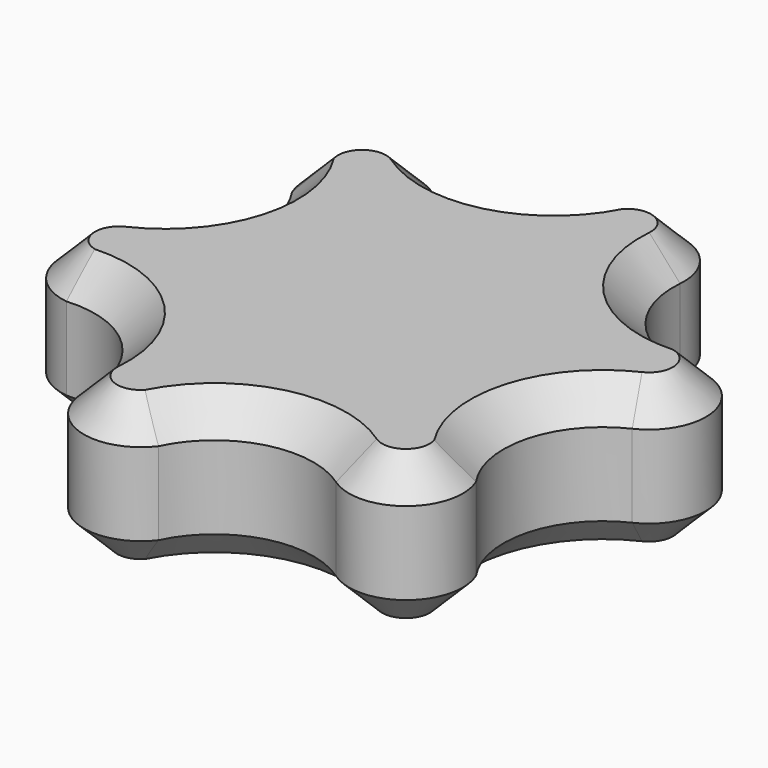
from build123d import *

# Parameters (mm, degrees)
F0_R     = 6.6
F1_DEPTH = 9
F2_DEPTH = 7
F3_SIZE  = 2
F4_DEPTH = 3


with BuildPart() as f1:
    # F0 (on Top) → F1 (new body)
    with BuildSketch(Plane.XY):
        with BuildLine():
            ThreePointArc((1.338738724, 15.35871396), (-2.5323518967, 12.1283433891), (-7.5, 12.9903810568))
            ThreePointArc((-7.5, 12.9903810568), (-11.6205194267, 12.8362404515), (-12.6316670968, 8.838738724))
            ThreePointArc((-12.6316670968, 8.838738724), (-11.7696294292, 3.8710906207), (-15, 0))
            ThreePointArc((-15, 0), (-16.9267700334, -3.6455448029), (-13.9704058208, -6.519975236))
            ThreePointArc((-13.9704058208, -6.519975236), (-9.2372775325, -8.2572527684), (-7.5, -12.9903810568))
            ThreePointArc((-7.5, -12.9903810568), (-5.3062506067, -16.4817852544), (-1.338738724, -15.35871396))
            ThreePointArc((-1.338738724, -15.35871396), (2.5323518967, -12.1283433891), (7.5, -12.9903810568))
            ThreePointArc((7.5, -12.9903810568), (11.6205194267, -12.8362404515), (12.6316670968, -8.838738724))
            ThreePointArc((12.6316670968, -8.838738724), (11.7696294292, -3.8710906207), (15, 0))
            ThreePointArc((15, 0), (16.9267700334, 3.6455448029), (13.9704058208, 6.519975236))
            ThreePointArc((13.9704058208, 6.519975236), (9.2372775325, 8.2572527684), (7.5, 12.9903810568))
            ThreePointArc((7.5, 12.9903810568), (5.3062506067, 16.4817852544), (1.338738724, 15.35871396))
        make_face()
        Circle(F0_R, mode=Mode.SUBTRACT)
        Circle(F0_R)
        Polygon((-1.6743157806, -2.9), (-3.3486315613, 0), (-1.6743157806, 2.9), (1.6743157806, 2.9), (3.3486315613, 0), (1.6743157806, -2.9), align=None, mode=Mode.SUBTRACT)
        Polygon((-1.6743157806, 2.9), (-3.3486315613, 0), (-1.6743157806, -2.9), (1.6743157806, -2.9), (3.3486315613, 0), (1.6743157806, 2.9), align=None)
    extrude(amount=F1_DEPTH)

    # F0 (on Top) → F2 (cut)
    with BuildSketch(Plane.XY):
        Circle(F0_R)
        Polygon((-1.6743157806, -2.9), (-3.3486315613, 0), (-1.6743157806, 2.9), (1.6743157806, 2.9), (3.3486315613, 0), (1.6743157806, -2.9), align=None, mode=Mode.SUBTRACT)
    extrude(amount=F2_DEPTH, mode=Mode.SUBTRACT)

    # F3
    f3_edges = [f1.edges().sort_by_distance(p)[0] for p in [
        (-2.532352, 12.128343, 0),
        (5.306251, 16.481785, 0),
        (9.237278, 8.257253, 0),
        (16.92677, 3.645545, 0),
        (11.769629, -3.871091, 0),
        (2.532352, -12.128343, 0),
        (-5.306251, -16.481785, 0),
        (-9.237278, -8.257253, 0),
        (-16.92677, -3.645545, 0),
        (-11.769629, 3.871091, 0),
        (9.237278, 8.257253, 9),
        (5.306251, 16.481785, 9),
        (-2.532352, 12.128343, 9),
        (-11.620519, 12.83624, 9),
        (-11.769629, 3.871091, 9),
        (-16.92677, -3.645545, 9),
        (-9.237278, -8.257253, 9),
        (-5.306251, -16.481785, 9),
        (2.532352, -12.128343, 9),
        (11.620519, -12.83624, 9),
        (11.769629, -3.871091, 9),
        (16.92677, 3.645545, 9),
    ]]
    chamfer(f3_edges, length=F3_SIZE)

    # F0 (on Top) → F4 (cut)
    with BuildSketch(Plane.XY):
        Polygon((-1.6743157806, 2.9), (-3.3486315613, 0), (-1.6743157806, -2.9), (1.6743157806, -2.9), (3.3486315613, 0), (1.6743157806, 2.9), align=None)
    extrude(amount=F4_DEPTH, mode=Mode.SUBTRACT)


solid = f1.part
